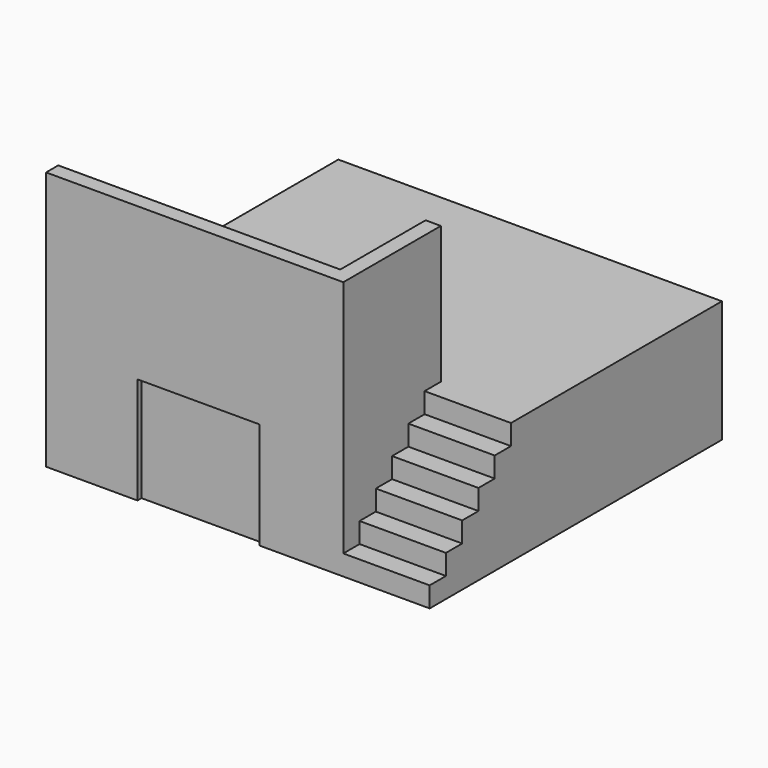
from build123d import *

# Parameters (mm, degrees)
F0_W      = 3835.4
F0_H      = 3652.52
F0_W_2    = 3530.6
F0_H_2    = 3347.72
F1_DEPTH  = 1066.8
F2_W      = 3835.4
F2_H      = 152.4
F3_DEPTH  = 3652.52
F4_W      = 863.6
F4_H      = 1219.2
F5_DEPTH  = 1219.2
F7_DEPTH  = 1066.8
F8_W      = 1219.2
F8_H      = 1066.8
F9_DEPTH  = 50.8
F11_DEPTH = 863.6
F13_DEPTH = 1371.6


with BuildPart() as f1:
    # F0 (on Top) → F1 (new body)
    with BuildSketch(Plane.XY):
        with Locations((1917.7, 1826.26)):
            Rectangle(F0_W, F0_H)
        with Locations((1917.7, 1826.26)):
            Rectangle(F0_W_2, F0_H_2, mode=Mode.SUBTRACT)
    extrude(amount=-F1_DEPTH)

    # F2 (on face) → F3 (join, through all)
    with BuildSketch(Plane.XZ):
        with Locations((1917.7, 76.2)):
            Rectangle(F2_W, F2_H)
    extrude(amount=-F3_DEPTH)

    # F4 (on face) → F5 (cut, through all)
    with BuildSketch(Plane.XY.offset(152.4)):
        with Locations((3403.6, 609.6)):
            Rectangle(F4_W, F4_H)
    extrude(amount=-F5_DEPTH, mode=Mode.SUBTRACT)

    # F6 (on face) → F7 (join, through all)
    with BuildSketch(Plane(origin=(0, 0, 0), x_dir=(1, 0, 0), z_dir=(0, 0, -1))):
        Polygon((2819.4, -152.4), (2819.4, -1371.6), (3683, -1371.6), (3683, -1219.2), (2971.8, -1219.2), (2971.8, -152.4), align=None)
    extrude(amount=F7_DEPTH)

    # F8 (on face) → F9 (cut)
    with BuildSketch(Plane.XZ):
        with Locations((1524, -533.4)):
            Rectangle(F8_W, F8_H)
    extrude(amount=-F9_DEPTH, mode=Mode.SUBTRACT)

    # F10 (on face) → F11 (join, through all)
    with BuildSketch(Plane.YZ.offset(3835.4)):
        Polygon((0, -1066.8), (1219.2, -1066.8), (1219.2, 152.4), (1016, 152.4), (1016, -50.8), (812.8, -50.8), (812.8, -254), (609.6, -254), (609.6, -457.2), (406.4, -457.2), (406.4, -660.4), (203.2, -660.4), (203.2, -863.6), (0, -863.6), align=None)
    extrude(amount=-F11_DEPTH)

    # F12 (on face) → F13 (join)
    with BuildSketch(Plane.XY.offset(152.4)):
        Polygon((0, 152.4), (0, 0), (2971.8, 0), (2971.8, 152.4), (2971.8, 1016), (2971.8, 1219.2), (2819.4, 1219.2), (2819.4, 152.4), align=None)
    extrude(amount=F13_DEPTH)


solid = f1.part
